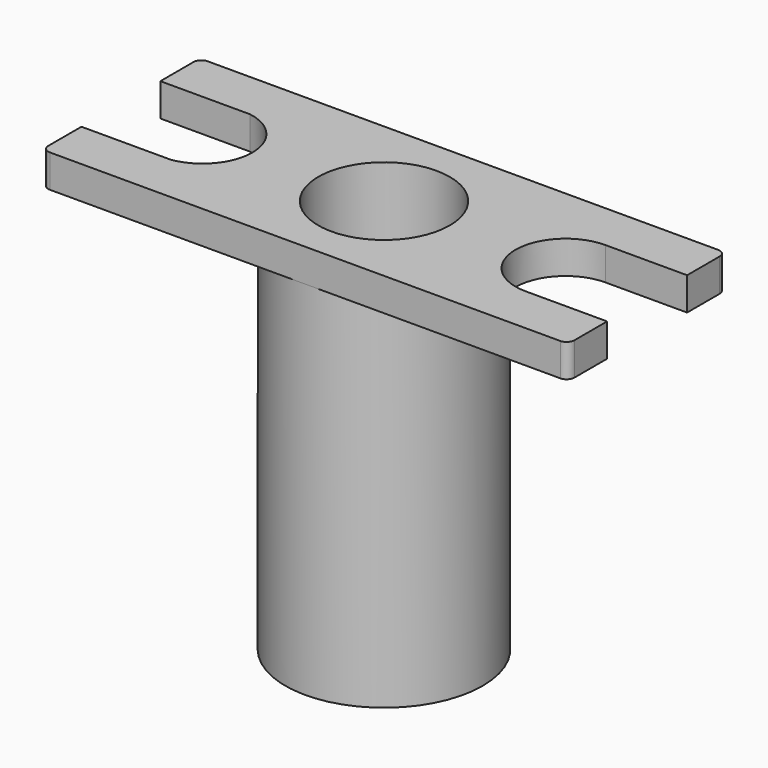
from build123d import *

# Parameters (mm, degrees)
F1_DEPTH      = 6.35
F2_DEPTH      = 6.35
F0_R          = 12.7
F3_DEPTH      = 6.35
F3_DEPTH_BACK = 69.85
F0_R_2        = 4.7625
F4_DEPTH      = 6.35
F4_DEPTH_BACK = 57.15
F5_START      = -63.5
F5_DEPTH      = 6.35
F6_R          = 1.524


with BuildPart() as f1:
    # F0 (on Top) → F1 (new body)
    with BuildSketch(Plane.XY):
        with BuildLine():
            Line((0, 9.525), (0, 0))
            Line((0, 0), (50.8, 0))
            ThreePointArc((50.8, 0), (31.75, 19.05), (50.8, 38.1))
            Line((50.8, 38.1), (0, 38.1))
            Line((0, 38.1), (0, 28.575))
            Line((0, 28.575), (17.3086021274, 28.575))
            ThreePointArc((17.3086021274, 28.575), (25.4, 19.05), (17.3086021274, 9.525))
            Line((17.3086021274, 9.525), (0, 9.525))
        make_face()
    extrude(amount=F1_DEPTH)

    # F0 (on Top) → F2 (join)
    with BuildSketch(Plane.XY):
        with BuildLine():
            ThreePointArc((69.85, 19.05), (64.2703841816, 5.5796158184), (50.8, 0))
            Line((50.8, 0), (101.6, 0))
            Line((101.6, 0), (101.6, 9.398))
            Line((101.6, 9.398), (85.852, 9.398))
            ThreePointArc((85.852, 9.398), (76.2, 19.05), (85.852, 28.702))
            Line((85.852, 28.702), (101.6, 28.702))
            Line((101.6, 28.702), (101.6, 38.1))
            Line((101.6, 38.1), (50.8, 38.1))
            ThreePointArc((50.8, 38.1), (64.2703841816, 32.5203841816), (69.85, 19.05))
        make_face()
    extrude(amount=F2_DEPTH)

    # F0 (on Top) → F3 (join, two sides)
    with BuildSketch(Plane.XY) as f3_sk:
        with BuildLine():
            ThreePointArc((50.8, 38.1), (31.75, 19.05), (50.8, 0))
            ThreePointArc((50.8, 0), (64.2703841816, 5.5796158184), (69.85, 19.05))
            ThreePointArc((69.85, 19.05), (64.2703841816, 32.5203841816), (50.8, 38.1))
        make_face()
        with Locations((50.8, 19.05)):
            Circle(F0_R, mode=Mode.SUBTRACT)
    extrude(amount=F3_DEPTH)
    extrude(f3_sk.sketch, amount=-F3_DEPTH_BACK)

    # F0 (on Top) → F4 (cut, two sides)
    with BuildSketch(Plane.XY) as f4_sk:
        with Locations((50.8, 19.05)):
            Circle(F0_R)
        with Locations((50.8, 19.05)):
            Circle(F0_R_2, mode=Mode.SUBTRACT)
    extrude(amount=F4_DEPTH, mode=Mode.SUBTRACT)
    extrude(f4_sk.sketch, amount=-F4_DEPTH_BACK, mode=Mode.SUBTRACT)

    # F0 (on Top) → F5 (join)
    with BuildSketch(Plane.XY.offset(F5_START)):
        with Locations((50.8, 19.05)):
            Circle(F0_R)
        with Locations((50.8, 19.05)):
            Circle(F0_R_2, mode=Mode.SUBTRACT)
    extrude(amount=-F5_DEPTH)

    # F6
    f6_edges = [f1.edges().sort_by_distance(p)[0] for p in [
        (101.6, 0, 3.175),
        (0, 0, 3.175),
        (101.6, 38.1, 3.175),
        (0, 38.1, 3.175),
    ]]
    fillet(f6_edges, radius=F6_R)


solid = f1.part
